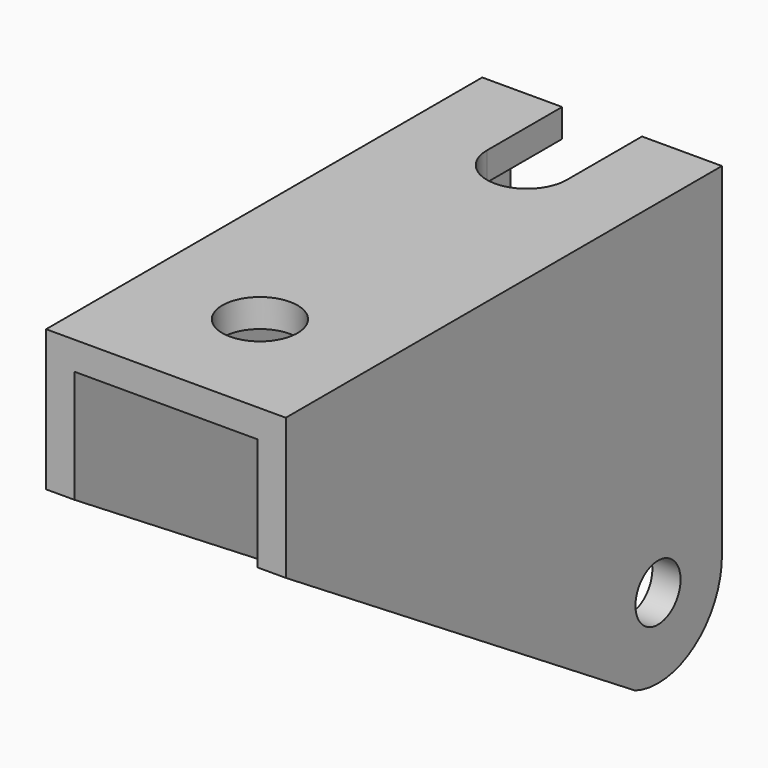
from build123d import *

# Parameters (mm, degrees)
SKETCH012_R             = 3
PAD007_DEPTH            = 12.75
SKETCH013_W             = 45
SKETCH013_H             = 19.5
POCKET004_DEPTH         = 58.001
SKETCH014_R             = 4
POCKET005_DEPTH         = 3.001
BODY003_ROLL_ANGLE      = 180
BODY003_PLACEMENT_ANGLE = -90


with BuildPart() as part:
    # Sketch012 → Pad007 (new body, symmetric)
    with BuildSketch(Plane.XZ):
        with BuildLine():
            Line((-8.5, 0), (-8.5, -36.5))
            Line((-8.5, -36.5), (49.5, -36.5))
            Line((49.5, -36.5), (49.5, -21.5))
            Line((49.5, -21.5), (3.040993, 7.937403))
            ThreePointArc((3.040993, 7.937403), (-4.816719, 7.003515), (-8.5, 0))
        make_face()
        Circle(SKETCH012_R, mode=Mode.SUBTRACT)
    extrude(amount=PAD007_DEPTH, both=True)

    # Sketch013 (on Face1 of Pad007) → Pocket004 (cut, through all)
    with BuildSketch(Plane(origin=(-8.5, 0, 0), x_dir=(0, 0, -1), z_dir=(-1, 0, 0))):
        with Locations((11, 0)):
            Rectangle(SKETCH013_W, SKETCH013_H)
    extrude(amount=-POCKET004_DEPTH, mode=Mode.SUBTRACT)

    # Sketch014 (on Face7 of Pocket004) → Pocket005 (cut, through all)
    with BuildSketch(Plane(origin=(0, 0, -33.5), x_dir=(-1, 0, 0), z_dir=(0, 0, 1))):
        with Locations((-37, 0)):
            Circle(SKETCH014_R)
        with BuildLine():
            Line((-1.5, 4.25), (8.5, 4.25))
            Line((8.5, 4.25), (8.5, -4.25))
            Line((-1.5, -4.25), (8.5, -4.25))
            ThreePointArc((-1.5, 4.25), (-5.75, 0), (-1.5, -4.25))
        make_face()
    extrude(amount=-POCKET005_DEPTH, mode=Mode.SUBTRACT)


with BuildPart() as part_1:
    # Body003 roll: moved
    add(part.part.rotate(Axis((0, 0, 0), (1, 0, 0)), BODY003_ROLL_ANGLE))


with BuildPart() as part_2:
    # Body003 placement: moved
    add(part_1.part.moved(Location((0, 0, 536))).rotate(Axis((0, 0, 536), (0, 0, 1)), BODY003_PLACEMENT_ANGLE))


solid = part_2.part
